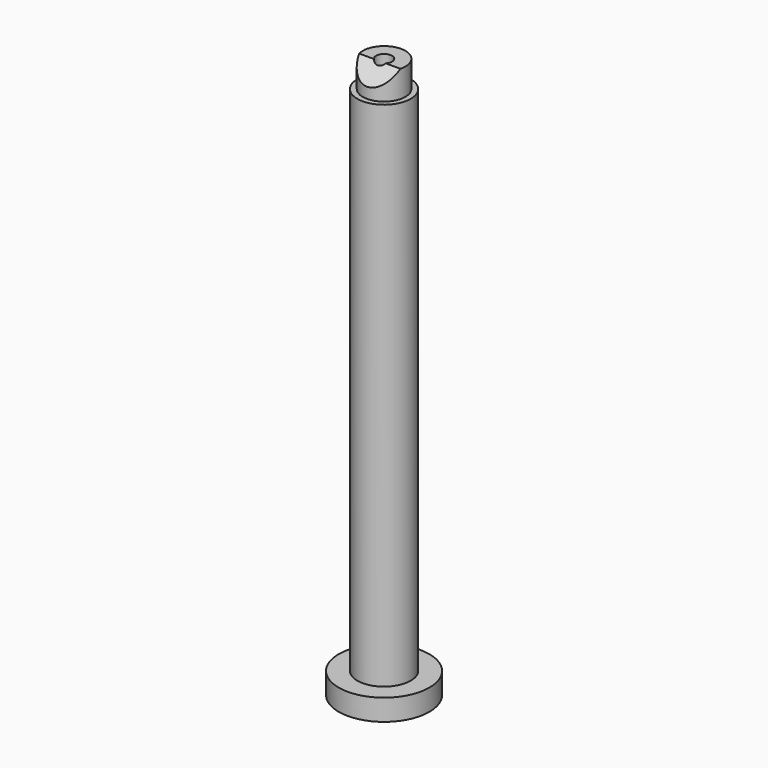
from build123d import *

# Parameters (mm, degrees)
F0_R          = 8.5
F1_DEPTH      = 4
F3_R          = 5
F4_DEPTH      = 100
F5_W          = 4
F5_H          = 5
F9_DEPTH      = 8.501
F9_DEPTH_BACK = 25
F10_R         = 1.5
F11_DEPTH     = 110.8


with BuildPart() as f1:
    # F0 (on Top) → F1 (new body)
    with BuildSketch(Plane.XY):
        Circle(F0_R)
    extrude(amount=F1_DEPTH)

    # F3 (on Top) → F4 (join)
    with BuildSketch(Plane.XY):
        Circle(F3_R)
    extrude(amount=F4_DEPTH)

    # F5 (on Right) → F6 (revolve)
    with BuildSketch(Plane.YZ):
        with Locations((2, 102.5)):
            Rectangle(F5_W, F5_H)
    revolve(axis=Axis((0, 0, 102.5), (0, 0, -1)))

    # F8 (on Right) → F9 (cut, two sides)
    with BuildSketch(Plane.YZ) as f9_sk:
        Polygon((0, 106), (-5, 106), (-5, 101), align=None)
    extrude(amount=-F9_DEPTH, mode=Mode.SUBTRACT)
    extrude(f9_sk.sketch, amount=F9_DEPTH_BACK, mode=Mode.SUBTRACT)

    # F10 (on face) → F11 (cut)
    with BuildSketch(Plane(origin=(0, 0, 0), x_dir=(1, 0, 0), z_dir=(0, 0, -1))):
        Circle(F10_R)
    extrude(amount=-F11_DEPTH, mode=Mode.SUBTRACT)


solid = f1.part
